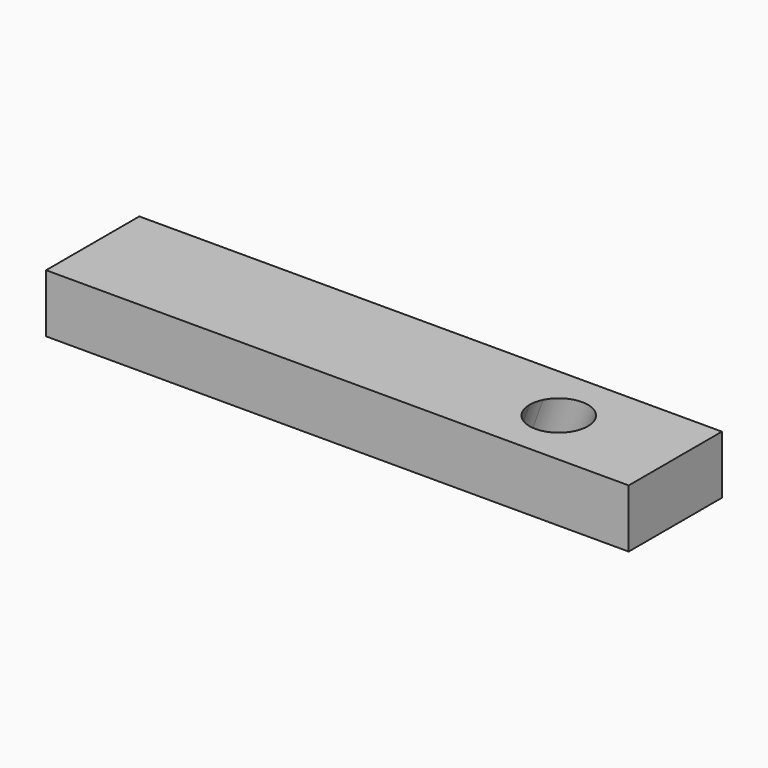
from build123d import *

# Parameters (mm, degrees)
F0_W     = 254
F0_H     = 50.8
F1_DEPTH = 25.4


with BuildPart() as f1:
    # F0 (on Top) → F1 (new body)
    with BuildSketch(Plane.XY):
        Rectangle(F0_W, F0_H)
    extrude(amount=F1_DEPTH)

    # F4: sweep along a path in F3
    with BuildLine(Plane.XZ.offset(25.4)) as f4_path:
        Line((74.6804546619, 25.4), (65.4356107116, 0))
    # F2 (on face) → F4 (sweep, cut)
    with BuildSketch(Plane.XY.offset(25.4)):
        with BuildLine():
            Line((64.8407746743, 5.6796126628), (76.2, 0))
            Line((76.2, 0), (87.5592253257, 5.6796126628))
            ThreePointArc((87.5592253257, 5.6796126628), (76.2, 12.7), (64.8407746743, 5.6796126628))
        make_face()
        with BuildLine():
            Line((63.5, 0), (76.2, 0))
            Line((76.2, 0), (64.8407746743, 5.6796126628))
            ThreePointArc((64.8407746743, 5.6796126628), (63.8397378338, 2.917862091), (63.5, 0))
        make_face()
        with BuildLine():
            Line((87.5592253257, 5.6796126628), (76.2, 0))
            Line((76.2, 0), (88.9, 0))
            ThreePointArc((88.9, 0), (88.5602621662, 2.917862091), (87.5592253257, 5.6796126628))
        make_face()
        with BuildLine():
            Line((76.2, -12.7), (76.2, 0))
            Line((76.2, 0), (64.8407746743, -5.6796126628))
            ThreePointArc((64.8407746743, -5.6796126628), (69.5232148761, -10.8032652661), (76.2, -12.7))
        make_face()
        with BuildLine():
            ThreePointArc((76.2, -12.7), (82.8767851239, -10.8032652661), (87.5592253257, -5.6796126628))
            Line((87.5592253257, -5.6796126628), (76.2, 0))
            Line((76.2, 0), (76.2, -12.7))
        make_face()
        with BuildLine():
            Line((76.2, 0), (87.5592253257, -5.6796126628))
            ThreePointArc((87.5592253257, -5.6796126628), (88.5602621662, -2.917862091), (88.9, 0))
            Line((88.9, 0), (76.2, 0))
        make_face()
        with BuildLine():
            Line((64.8407746743, -5.6796126628), (76.2, 0))
            Line((76.2, 0), (63.5, 0))
            ThreePointArc((63.5, 0), (63.8397378338, -2.917862091), (64.8407746743, -5.6796126628))
        make_face()
    sweep(path=f4_path.line, mode=Mode.SUBTRACT)


solid = f1.part
